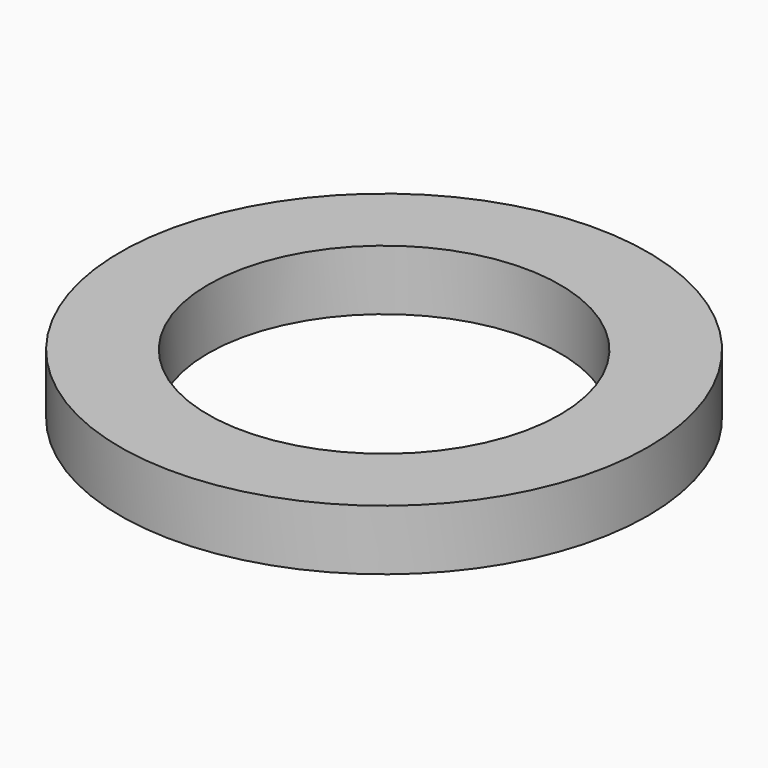
from build123d import *

# Parameters (mm, degrees)
SKETCH_R     = 5.25
PAD_DEPTH    = 1.2
SKETCH001_R  = 3.5
POCKET_DEPTH = 1.2


with BuildPart() as part:
    # Sketch → Pad (new body)
    with BuildSketch(Plane.XY):
        Circle(SKETCH_R)
    extrude(amount=PAD_DEPTH)

    # Sketch001 (on Face3 of Pad) → Pocket (cut)
    with BuildSketch(Plane.XY.offset(1.2)):
        Circle(SKETCH001_R)
    extrude(amount=-POCKET_DEPTH, mode=Mode.SUBTRACT)


solid = part.part
